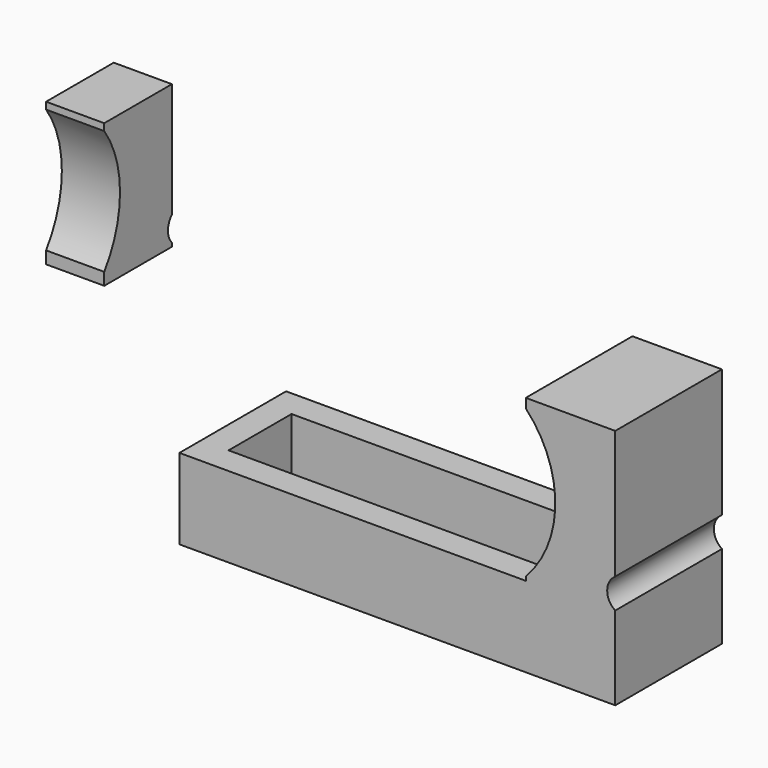
from build123d import *

# Parameters (mm, degrees)
CYLINDER002_R     = 1
CYLINDER002_DEPTH = 10
CYLINDER003_R     = 1
CYLINDER003_DEPTH = 10
CYLINDER_R        = 1
CYLINDER_DEPTH    = 10
CYLINDER005_R     = 2
CYLINDER005_DEPTH = 16
CYLINDER004_R     = 12
CYLINDER004_DEPTH = 20
BOX005_W          = 10
BOX005_H          = 14.9
BOX005_DEPTH      = 27
BOX004_W          = 45.7
BOX004_H          = 14.9
BOX004_DEPTH      = 2
BOX_W             = 36.6
BOX_H             = 8.8
BOX_DEPTH         = 10
BOX001_W          = 45.7
BOX001_H          = 14.9
BOX001_DEPTH      = 7
CYLINDER007_R     = 2
CYLINDER007_DEPTH = 10
CYLINDER006_R     = 12
CYLINDER006_DEPTH = 16
BOX007_W          = 2.5
BOX007_H          = 5.45
BOX007_DEPTH      = 10.5
BOX008_W          = 6.5
BOX008_H          = 9.45
BOX008_DEPTH      = 16


with BuildPart() as cylinder002:
    # Cylinder002 → Cylinder002 (new body)
    with BuildSketch(Plane(origin=(5, 6.6, -4), x_dir=(1, 0, 0), z_dir=(0, 0, 1))):
        Circle(CYLINDER002_R)
    extrude(amount=CYLINDER002_DEPTH)


with BuildPart() as cylinder003:
    # Cylinder003 → Cylinder003 (new body)
    with BuildSketch(Plane(origin=(30.7, 2.3, -4), x_dir=(1, 0, 0), z_dir=(0, 0, 1))):
        Circle(CYLINDER003_R)
    extrude(amount=CYLINDER003_DEPTH)


with BuildPart() as fusion:
    # Cylinder → Cylinder (new body)
    with BuildSketch(Plane(origin=(5, 2.3, -4), x_dir=(1, 0, 0), z_dir=(0, 0, 1))):
        Circle(CYLINDER_R)
    extrude(amount=CYLINDER_DEPTH)

    # Fusion: union Cylinder002, Cylinder003
    add(cylinder002.part)
    add(cylinder003.part)


with BuildPart() as cylinder005:
    # Cylinder005 → Cylinder005 (new body)
    with BuildSketch(Plane(origin=(46.8, -3.5, 9), x_dir=(1, 0, 0), z_dir=(0, 1, 0))):
        Circle(CYLINDER005_R)
    extrude(amount=CYLINDER005_DEPTH)


with BuildPart() as cylinder004:
    # Cylinder004 → Cylinder004 (new body)
    with BuildSketch(Plane(origin=(27, 14, 15.7), x_dir=(1, 0, 0), z_dir=(0, -1, 0))):
        Circle(CYLINDER004_R)
    extrude(amount=CYLINDER004_DEPTH)


with BuildPart() as cut002:
    # Box005 → Box005 (new body)
    with BuildSketch(Plane(origin=(35.7, -3, -2), x_dir=(1, 0, 0), z_dir=(0, 0, 1))):
        with Locations((5, 7.45)):
            Rectangle(BOX005_W, BOX005_H)
    extrude(amount=BOX005_DEPTH)

    # Cut001: cut Cylinder004
    add(cylinder004.part, mode=Mode.SUBTRACT)

    # Cut002: cut Cylinder005
    add(cylinder005.part, mode=Mode.SUBTRACT)


with BuildPart() as cube004:
    # Box004 → Box004 (new body)
    with BuildSketch(Plane(origin=(-3, -3, -2), x_dir=(1, 0, 0), z_dir=(0, 0, 1))):
        with Locations((22.85, 7.45)):
            Rectangle(BOX004_W, BOX004_H)
    extrude(amount=BOX004_DEPTH)


with BuildPart() as cube:
    # Box → Box (new body)
    with BuildSketch(Plane(origin=(0.05, 0.05, -2), x_dir=(1, 0, 0), z_dir=(0, 0, 1))):
        with Locations((18.3, 4.4)):
            Rectangle(BOX_W, BOX_H)
    extrude(amount=BOX_DEPTH)


with BuildPart() as cut003:
    # Box001 → Box001 (new body)
    with BuildSketch(Plane(origin=(-3, -3, 0), x_dir=(1, 0, 0), z_dir=(0, 0, 1))):
        with Locations((22.85, 7.45)):
            Rectangle(BOX001_W, BOX001_H)
    extrude(amount=BOX001_DEPTH)

    # Cut: cut Cube
    add(cube.part, mode=Mode.SUBTRACT)

    # Fusion001: union Cut002, Cube004
    add(cut002.part)
    add(cube004.part)

    # Cut003: cut Fusion
    add(fusion.part, mode=Mode.SUBTRACT)


with BuildPart() as cylinder007:
    # Cylinder007 → Cylinder007 (new body)
    with BuildSketch(Plane(origin=(-12, 10.9, 20.5), x_dir=(0, 0, 1), z_dir=(-1, 0, 0))):
        Circle(CYLINDER007_R)
    extrude(amount=CYLINDER007_DEPTH)


with BuildPart() as cylinder006:
    # Cylinder006 → Cylinder006 (new body)
    with BuildSketch(Plane(origin=(-10, -9.8, 27), x_dir=(0, 0, 1), z_dir=(-1, 0, 0))):
        Circle(CYLINDER006_R)
    extrude(amount=CYLINDER006_DEPTH)


with BuildPart() as cube007:
    # Box007 → Box007 (new body)
    with BuildSketch(Plane(origin=(-18.3, 2.9, 18.7), x_dir=(1, 0, 0), z_dir=(0, 0, 1))):
        with Locations((1.25, 2.725)):
            Rectangle(BOX007_W, BOX007_H)
    extrude(amount=BOX007_DEPTH)


with BuildPart() as cut006:
    # Box008 → Box008 (new body)
    with BuildSketch(Plane(origin=(-20.3, 0, 18.7), x_dir=(1, 0, 0), z_dir=(0, 0, 1))):
        with Locations((3.25, 4.725)):
            Rectangle(BOX008_W, BOX008_H)
    extrude(amount=BOX008_DEPTH)

    # Cut004: cut Cube007
    add(cube007.part, mode=Mode.SUBTRACT)

    # Cut005: cut Cylinder006
    add(cylinder006.part, mode=Mode.SUBTRACT)

    # Cut006: cut Cylinder007
    add(cylinder007.part, mode=Mode.SUBTRACT)


solid = Compound([cut003.part, cut006.part])
